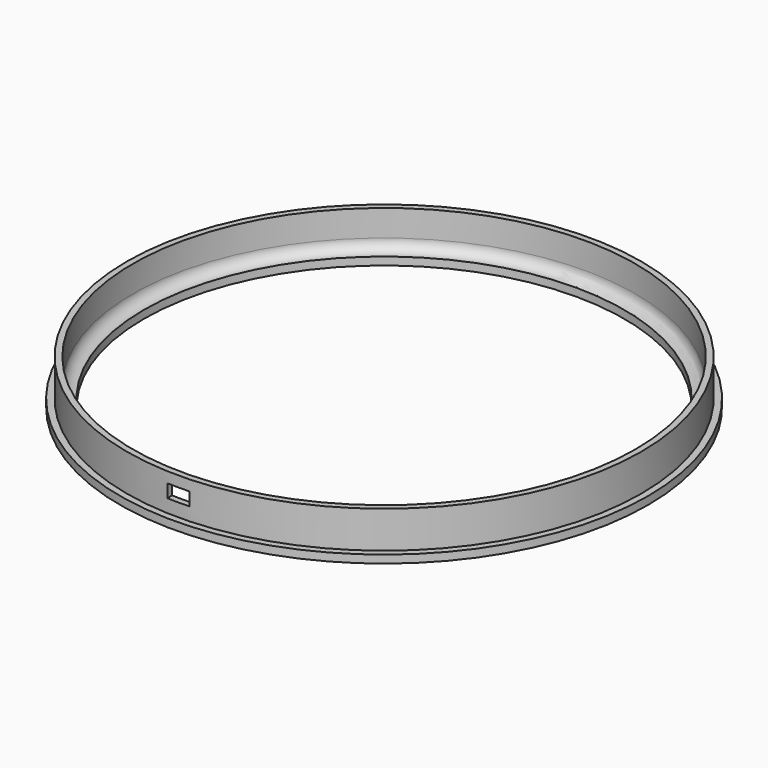
from build123d import *

# Parameters (mm, degrees)
F0_R     = 50
F1_DEPTH = 1.5
F2_R     = 48.75
F2_R_2   = 47.6
F3_DEPTH = 7
F4_R     = 45.5
F5_DEPTH = 25
F6_W     = 4.2
F6_H     = 2.5
F7_DEPTH = 150.9
F8_R     = 2


with BuildPart() as f1:
    # F0 (on Top) → F1 (new body)
    with BuildSketch(Plane.XY):
        Circle(F0_R)
    extrude(amount=F1_DEPTH)

    # F2 (on face) → F3 (join)
    with BuildSketch(Plane.XY.offset(1.5)):
        Circle(F2_R)
        Circle(F2_R_2, mode=Mode.SUBTRACT)
    extrude(amount=F3_DEPTH)

    # F4 (on face) → F5 (cut)
    with BuildSketch(Plane.XY.offset(1.5)):
        Circle(F4_R)
    extrude(amount=-F5_DEPTH, mode=Mode.SUBTRACT)

    # F6 (on Front) → F7 (cut)
    with BuildSketch(Plane.XZ):
        with Locations((0, 5.25)):
            Rectangle(F6_W, F6_H)
    extrude(amount=F7_DEPTH, mode=Mode.SUBTRACT)

    # F8
    f8_edges = [f1.edges().sort_by_distance(p)[0] for p in [
        (-47.6, 0, 1.5),
    ]]
    fillet(f8_edges, radius=F8_R)


solid = f1.part
